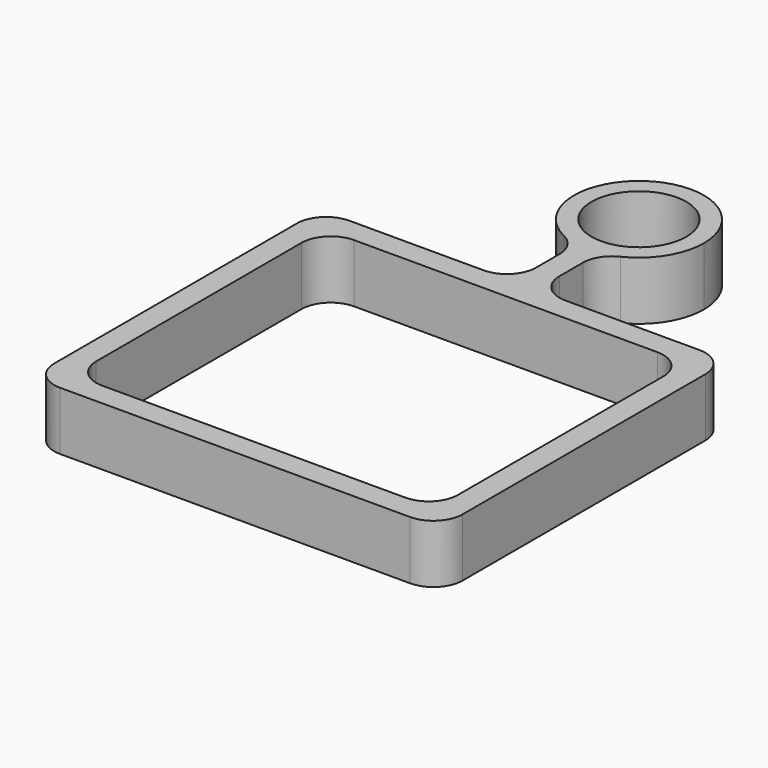
from build123d import *

# Parameters (mm, degrees)
F0_R     = 8.1245
F1_DEPTH = 10
F2_R     = 5


with BuildPart() as f1:
    # F0 (on Top) → F1 (new body)
    with BuildSketch(Plane.XY):
        with BuildLine():
            ThreePointArc((5.016295, 65.530641), (-13.232302, 74.074747), (-8.108205, 54.587401))
            ThreePointArc((-8.108205, 54.587401), (-6.108205, 54.406141), (-4.108205, 54.587401))
            ThreePointArc((-4.108205, 54.587401), (2.435901, 58.406544), (5.016295, 65.530641))
        make_face()
        with Locations((-6.108205, 65.530641)):
            Circle(F0_R, mode=Mode.SUBTRACT)
        with BuildLine():
            Line((-8.108205, 40.99443), (-36.108205, 40.99443))
            ThreePointArc((-36.108205, 40.99443), (-39.643739, 39.529964), (-41.108205, 35.99443))
            Line((-41.108205, 35.99443), (-41.108205, -16.00557))
            ThreePointArc((-41.108205, -16.00557), (-39.643739, -19.541104), (-36.108205, -21.00557))
            Line((-36.108205, -21.00557), (23.891795, -21.00557))
            ThreePointArc((23.891795, -21.00557), (27.427329, -19.541104), (28.891795, -16.00557))
            Line((28.891795, -16.00557), (28.891795, 35.99443))
            ThreePointArc((28.891795, 35.99443), (27.427329, 39.529964), (23.891795, 40.99443))
            Line((23.891795, 40.99443), (-4.108205, 40.99443))
            Line((-4.108205, 40.99443), (-4.108205, 54.587401))
            ThreePointArc((-4.108205, 54.587401), (-6.108205, 54.406141), (-8.108205, 54.587401))
            Line((-8.108205, 54.587401), (-8.108205, 40.99443))
        make_face()
        with BuildLine():
            ThreePointArc((-37.108205, 31.99443), (-35.643739, 35.529964), (-32.108205, 36.99443))
            Line((-32.108205, 36.99443), (19.891795, 36.99443))
            ThreePointArc((19.891795, 36.99443), (23.427329, 35.529964), (24.891795, 31.99443))
            Line((24.891795, 31.99443), (24.891795, -12.00557))
            ThreePointArc((24.891795, -12.00557), (23.427329, -15.541104), (19.891795, -17.00557))
            Line((19.891795, -17.00557), (-32.108205, -17.00557))
            ThreePointArc((-32.108205, -17.00557), (-35.643739, -15.541104), (-37.108205, -12.00557))
            Line((-37.108205, -12.00557), (-37.108205, 31.99443))
        make_face(mode=Mode.SUBTRACT)
    extrude(amount=F1_DEPTH)

    # F2
    f2_edges = [f1.edges().sort_by_distance(p)[0] for p in [
        (-4.108205, 54.587401, 5),
        (-8.108205, 54.587401, 5),
        (-8.108205, 40.99443, 5),
        (-4.108205, 40.99443, 5),
    ]]
    fillet(f2_edges, radius=F2_R)


solid = f1.part
